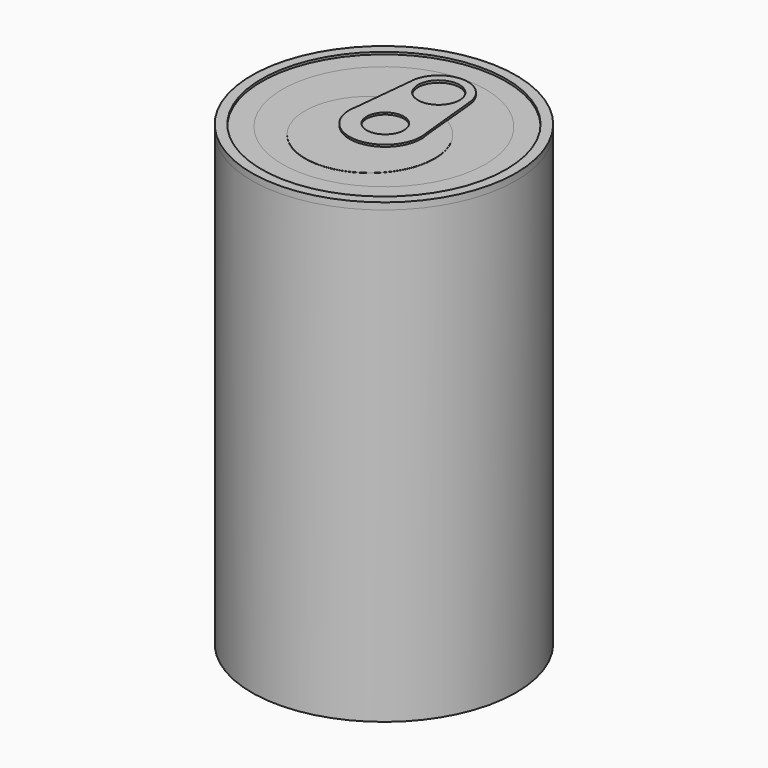
from build123d import *

# Parameters (mm, degrees)
F1_DEPTH  = 7.62
F1_TAPER  = -3
F2_R      = 149.0333442521
F3_DEPTH  = 508
F4_R      = 137.9387854388
F4_R_2    = 114.4747428545
F5_DEPTH  = 5.08
F6_DEPTH  = 7.62
F7_R      = 114.4747428545
F9_DEPTH  = 9.525
F8_R      = 72.9569658206
F10_DEPTH = 0.254


with BuildPart() as f1:
    # F0 (on Top) → F1 (new body)
    with BuildSketch(Plane.XY):
        with BuildLine():
            Line((32.3679885849, 0), (23.8426873423, 0))
            ThreePointArc((23.8426873423, 0), (0, -23.8426873423), (-23.8426873423, 0))
            Line((-23.8426873423, 0), (-32.3679885849, 0))
            ThreePointArc((-32.3679885849, 0), (0, -32.3679885849), (32.3679885849, 0))
        make_face()
        with BuildLine():
            ThreePointArc((-23.8426873423, 0), (0, 23.8426873423), (23.8426873423, 0))
            Line((23.8426873423, 0), (32.3679885849, 0))
            ThreePointArc((32.3679885849, 0), (0, 32.3679885849), (-32.3679885849, 0))
            Line((-32.3679885849, 0), (-23.8426873423, 0))
        make_face()
        with BuildLine():
            Line((32.5280141494, 0), (32.3679885849, 0))
            ThreePointArc((32.3679885849, 0), (0, -32.3679885849), (-32.3679885849, 0))
            Line((-32.3679885849, 0), (-39.121145443, -66.467749763))
            ThreePointArc((-39.121145443, -66.467749763), (0.0996109993, -35.2607797937), (39.1649394144, -66.6620986575))
            Line((39.1649394144, -66.6620986575), (32.5280141494, 0))
        make_face()
        with BuildLine():
            Line((-40.1152688385, -76.2523803411), (-39.121145443, -66.467749763))
            ThreePointArc((-39.121145443, -66.467749763), (-39.9191318284, -71.3294909522), (-40.1152688385, -76.2523803411))
        make_face()
        with BuildLine():
            ThreePointArc((39.1649394144, -66.6620986575), (0.0996109993, -35.2607797937), (-39.121145443, -66.467749763))
            Line((-39.121145443, -66.467749763), (-40.1152688385, -76.2523803411))
            Line((-40.1152688385, -76.2523803411), (-21.3592780933, -76.2436931517))
            ThreePointArc((-21.3592780933, -76.2436931517), (-0.4292857209, -54.0130857486), (21.3765200232, -75.3852948546))
            ThreePointArc((21.3765200232, -75.3852948546), (21.3724056453, -75.8046815905), (21.3600640955, -76.223906886))
            Line((21.3600640955, -76.223906886), (40.1160548408, -76.2152196967))
            Line((40.1160548408, -76.2152196967), (39.1649394144, -66.6620986575))
        make_face()
        with BuildLine():
            ThreePointArc((40.1246387053, -75.3852948546), (39.8839922472, -70.997380355), (39.1649394144, -66.6620986575))
            Line((39.1649394144, -66.6620986575), (40.1160548408, -76.2152196967))
            ThreePointArc((40.1160548408, -76.2152196967), (40.1224926818, -75.8002794707), (40.1246387053, -75.3852948546))
        make_face()
        with BuildLine():
            Line((-21.3592780933, -76.2436931517), (-40.1152688385, -76.2523803411))
            ThreePointArc((-40.1152688385, -76.2523803411), (0.018584478, -115.509929256), (40.1160548408, -76.2152196967))
            Line((40.1160548408, -76.2152196967), (21.3600640955, -76.223906886))
            ThreePointArc((21.3600640955, -76.223906886), (0.0099009357, -96.7618125849), (-21.3592780933, -76.2436931517))
        make_face()
    extrude(amount=F1_DEPTH, taper=F1_TAPER)


with BuildPart() as f3:
    # F2 (on Top) → F3 (new body)
    with BuildSketch(Plane.XY):
        with Locations((0, -77.2868394852)):
            Circle(F2_R)
    extrude(amount=-F3_DEPTH)

    # F4 (on face) → F5 (join)
    with BuildSketch(Plane.XY):
        with Locations((0, -77.2868394852)):
            Circle(F4_R)
        with Locations((0, -77.2868394852)):
            Circle(F4_R_2, mode=Mode.SUBTRACT)
    extrude(amount=F5_DEPTH)

    # F6 (add): a face of the model
    f6_faces = [f3.faces().sort_by_distance(p)[0] for p in [
        (-144.8180447183, -77.2868394852, 0),
    ]]
    extrude(f6_faces, amount=F6_DEPTH)


with BuildPart() as f9:
    # F7 (on face) → F9 (new body)
    with BuildSketch(Plane.XY.offset(5.08)):
        with Locations((0, -77.2868394852)):
            Circle(F7_R)
    extrude(amount=-F9_DEPTH)


with BuildPart() as f10:
    # F8 (on face) → F10 (new body)
    with BuildSketch(Plane.XY.offset(5.08)):
        with Locations((0, -97.0284342766)):
            Circle(F8_R)
    extrude(amount=F10_DEPTH)


solid = Compound([f1.part, f3.part, f9.part, f10.part])
